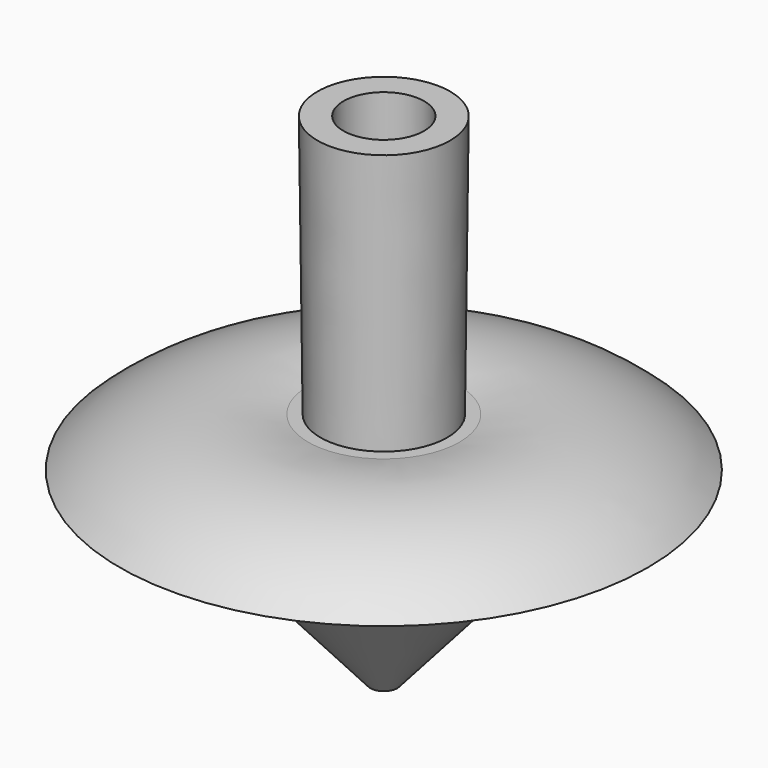
from build123d import *

# Parameters (mm, degrees)
F2_R     = 4.7625
F3_DEPTH = 9.525
F4_R     = 1.5875
F5_DEPTH = 22.225


with BuildPart() as f1:
    # F0 (on Front) → F1 (revolve)
    with BuildSketch(Plane.XZ):
        with BuildLine():
            Line((0, 60.744923), (0, 0))
            Line((0, 0), (13.365728, 15.209274))
            ThreePointArc((13.365728, 15.209274), (21.391858, 21.354408), (31.158879, 23.959541))
            ThreePointArc((31.158879, 23.959541), (20.775382, 29.638343), (8.941211, 29.773306))
            Line((8.941211, 29.773306), (7.487204, 29.773306))
            Line((7.487204, 29.773306), (7.837165, 60.744923))
            Line((7.837165, 60.744923), (0, 60.744923))
        make_face()
    revolve(axis=Axis((0, 0, 30.372461), (0, 0, -1)))

    # F2 (on face) → F3 (cut)
    with BuildSketch(Plane.XY.offset(60.744923)):
        Circle(F2_R)
    extrude(amount=-F3_DEPTH, mode=Mode.SUBTRACT)

    # F4 (on Top) → F5 (cut)
    with BuildSketch(Plane.XY):
        Circle(F4_R)
    extrude(amount=F5_DEPTH, mode=Mode.SUBTRACT)


solid = f1.part
